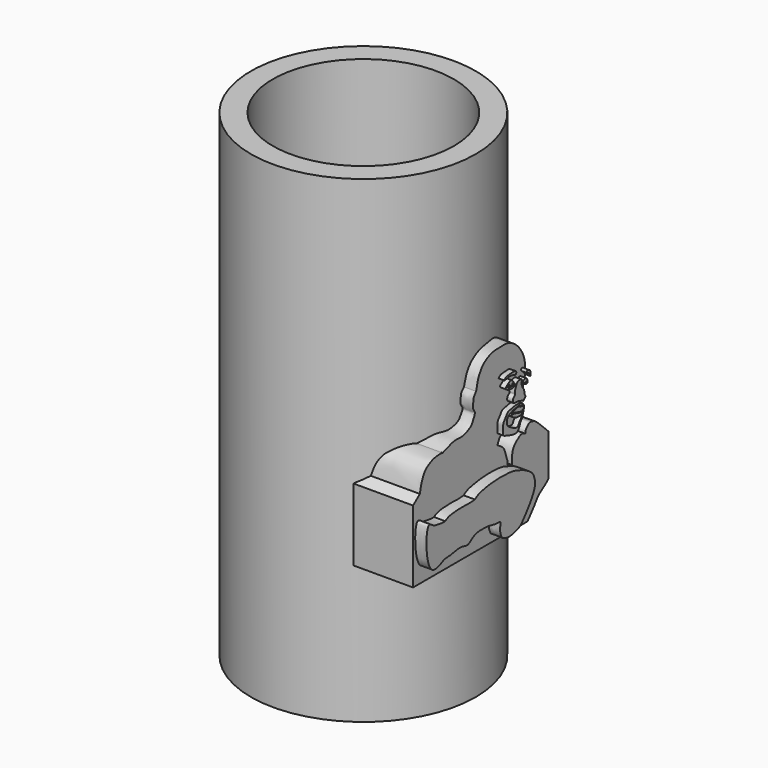
from build123d import *

# Parameters (mm, degrees)
F0_R      = 20
F1_DEPTH  = 85
F2_T      = -3.9
F5_DEPTH  = 22
F6_DEPTH  = 24
F8_DEPTH  = 23
F10_DEPTH = 23
F12_DEPTH = 23
F14_DEPTH = 23
F15_DEPTH = 11


with BuildPart() as f1:
    # F0 (on Top) → F1 (new body)
    with BuildSketch(Plane.XY):
        Circle(F0_R)
    extrude(amount=F1_DEPTH)

    # F2
    f2_openings = [f1.faces().sort_by_distance(p)[0] for p in [
        (0, 0, 85),
    ]]
    offset(amount=F2_T, openings=f2_openings)

    # F3 (on Right) → F5 (join)
    with BuildSketch(Plane.YZ):
        with BuildLine():
            add(Edge.make_bspline(
                [(-16.4515823126, 37.3248904943), (-15.9504863744, 37.7270579338), (-15.4493904362, 38.1292253733), (-14.948294498, 38.5313928127)],
                knots=[0, 0, 0, 0, 1.9275689605, 1.9275689605, 1.9275689605, 1.9275689605], degree=3))
            Line((-16.4515823126, 37.3248904943), (-16.4515823126, 24.4917310774))
            Line((-16.4515823126, 24.4917310774), (8.9940680191, 24.4917310774))
            add(Edge.make_bspline(
                [(13.6829614639, 29.3819773942), (13.4757545766, 29.1478628021), (12.9950564064, 28.6047415889), (11.3275543909, 27.6700101696), (10.8277409634, 26.6802934808), (9.6938398124, 25.3269368553), (8.9940680191, 24.4917310774)],
                knots=[0, 0, 0, 0, 0.1993952658, 0.4625760302, 0.6683360496, 1, 1, 1, 1], degree=3))
            Line((13.6829614639, 29.3819773942), (13.6829614639, 36.6673693061))
            add(Edge.make_bspline(
                [(8.5044139996, 38.4298712015), (8.5054520349, 38.6144104003), (8.5076043419, 38.9970419141), (8.9982072303, 39.4040604211), (9.3791289231, 39.8663838437), (9.9431143063, 39.7471940442), (10.5914397004, 39.6086211348), (11.4615368584, 38.8477871989), (12.8211431251, 37.5132787831), (13.6829614639, 36.6673693061)],
                knots=[0, 0, 0, 0, 0.1107935379, 0.2297240879, 0.3425043159, 0.4509418528, 0.5708087007, 0.7279470229, 1, 1, 1, 1], degree=3))
            add(Edge.make_bspline(
                [(5.5296607316, 34.7369387746), (5.5223939966, 35.0687982271), (5.5074492492, 35.7512994721), (5.6215718376, 36.9034984386), (6.1402463828, 37.7692465801), (6.9556839239, 38.3728413901), (7.698764092, 38.8735105637), (8.2333885391, 38.5791141435), (8.5044139996, 38.4298712015)],
                knots=[0, 0, 0, 0, 0.1712211629, 0.3521329765, 0.520135718, 0.6916107326, 0.843663447, 1, 1, 1, 1], degree=3))
            add(Edge.make_bspline(
                [(2.2931317799, 39.1361154616), (2.5295084399, 38.9965519203), (3.0073904031, 38.71439674), (3.7157367421, 38.1360633994), (4.0296084714, 37.4062468293), (4.3187025128, 36.2563610921), (4.6145068218, 35.7072249875), (4.3859374437, 34.9870517659), (5.1092354887, 34.8288786837), (5.5296607316, 34.7369387746)],
                knots=[0, 0, 0, 0, 0.1434980402, 0.2901095445, 0.4308653128, 0.6009780997, 0.7248543047, 0.8400684246, 1, 1, 1, 1], degree=3))
            add(Edge.make_bspline(
                [(-2.4435624946, 49.5003275573), (-2.3845054359, 49.7604555118), (-2.2555188287, 50.3286013531), (-1.944644982, 51.4888406137), (-1.4681658834, 52.3153655521), (-0.7982169602, 53.2490511267), (0.8658942955, 54.1656345756), (2.0743845922, 54.2293342303), (4.4899293685, 54.3720072171), (5.7153985447, 53.7514163189), (6.9085769149, 52.830063469), (7.7942513165, 51.5391678117), (8.430544438, 50.1374390902), (8.4346501677, 48.6021875589), (8.5377269519, 47.4506307595), (7.9934736411, 46.9650166653), (7.9049124264, 46.5271170093), (8.0061433661, 46.0799136303), (7.8297228441, 45.203439903), (7.4370477524, 44.2449185427), (7.1231711205, 43.4229065096), (6.8249371243, 42.7349626852), (6.6418992162, 41.5645660348), (6.1921520446, 41.4113391376), (6.1292630962, 40.7960366299), (5.5447023036, 40.0538614719), (4.6876971026, 39.938243465), (4.0133165539, 40.1269544875), (2.9761236029, 40.7412973964), (2.5398893811, 39.7160504336), (2.2931317799, 39.1361154616)],
                knots=[0, 0, 0, 0, 0.032437753, 0.0708473432, 0.1050474903, 0.142693478, 0.1898472447, 0.2298725632, 0.2835672681, 0.3248585007, 0.3673413887, 0.411363432, 0.4548346587, 0.498734566, 0.5355861662, 0.5639698867, 0.5863709081, 0.6096711874, 0.6426282787, 0.6790957712, 0.7116563012, 0.7431704727, 0.780177077, 0.8019281074, 0.8281036844, 0.8615335364, 0.893035629, 0.9231504011, 0.9565297225, 1, 1, 1, 1], degree=3))
            add(Edge.make_bspline(
                [(-9.874811396, 42.8932122886), (-9.6469518061, 42.9624837107), (-9.1249632642, 43.1211730538), (-7.9151827464, 43.6159265304), (-6.8415327452, 43.7932498255), (-5.5079211238, 43.6068122667), (-4.392568333, 44.0096887855), (-3.4480382593, 44.5280819306), (-3.1286771045, 45.2346403886), (-2.4911972049, 46.3479913636), (-3.2487673884, 46.9327910629), (-3.0320186263, 48.0843207918), (-3.0564393668, 48.7297921882), (-2.6605865131, 49.2274755543), (-2.4435624946, 49.5003275573)],
                knots=[0, 0, 0, 0, 0.0736028655, 0.1686119617, 0.2567837027, 0.3523725809, 0.4438452065, 0.5278203948, 0.6027686828, 0.6907915099, 0.764246455, 0.8511279115, 0.9183817457, 1, 1, 1, 1], degree=3))
            add(Edge.make_bspline(
                [(-14.948294498, 38.5313928127), (-14.8639645026, 38.9302851621), (-14.7027132866, 39.6930253481), (-14.4200332098, 40.6169855349), (-13.7747209872, 41.8665226413), (-12.7499741058, 42.436230234), (-12.0372136492, 42.7754247961), (-11.0901147178, 42.9342304094), (-10.340090942, 42.9702093467), (-10.0163113331, 42.9166284886), (-9.874811396, 42.8932122886)],
                knots=[0, 0, 0, 0, 0.1406464801, 0.2689365253, 0.4203529283, 0.5586001865, 0.67375823, 0.8002881756, 0.9127208452, 1, 1, 1, 1], degree=3))
        make_face()
    extrude(amount=F5_DEPTH)

    # F4 (on Right) → F6 (join)
    with BuildSketch(Plane.YZ):
        with BuildLine():
            add(Edge.make_bspline(
                [(-11.7928981781, 33.6265973747), (-11.6847251398, 33.7013140939), (-11.417900247, 33.8856139978), (-10.5401489172, 34.2043294443), (-8.7738907975, 34.3057405263), (-7.5037065812, 34.3228799175), (-6.4099659669, 34.2235273825), (-5.6157645756, 34.3037652704), (-5.2065406926, 34.3451090157)],
                knots=[0, 0, 0, 0, 0.1045468605, 0.2578803857, 0.4733720305, 0.6567681518, 0.82314477, 1, 1, 1, 1], degree=3))
            add(Edge.make_bspline(
                [(-11.7928981781, 33.6265973747), (-11.9980987584, 33.6140483488), (-12.4772044565, 33.5847486764), (-13.7121283351, 33.8431749985), (-14.4214482586, 33.8890319319), (-16.2646842775, 35.7427147943), (-16.152072842, 25.5814484758), (-12.4196249273, 27.5595691918), (-12.0034527811, 27.7583854787), (-11.3427502767, 27.8042070277), (-10.9632527456, 27.8305262327)],
                knots=[0, 0, 0, 0, 0.0839177581, 0.1959325652, 0.287811016, 0.3942436837, 0.6643299207, 0.823285747, 0.8984980044, 1, 1, 1, 1], degree=3))
            add(Edge.make_bspline(
                [(0.4318759893, 28.519038111), (0.3162604437, 28.5636268182), (0.066760594, 28.6598498278), (-0.4148283777, 28.5793434883), (-1.6602413595, 28.8321494645), (-2.2797779353, 29.0137976955), (-3.3145699676, 29.0223097305), (-4.3120700455, 29.044721445), (-5.2306793304, 28.8677502535), (-6.0488176043, 28.3194361898), (-6.7695552225, 27.7927994827), (-7.5022228393, 27.9701528666), (-8.0845456457, 28.1430961327), (-8.7935696493, 28.1786609778), (-9.7316377223, 27.9922146954), (-10.7788482719, 27.8170164132), (-10.9227749205, 27.8275607509), (-10.9632527456, 27.8305262327)],
                knots=[0, 0, 0, 0, 0.0464473251, 0.1002339311, 0.1859283186, 0.249924677, 0.3266482518, 0.4044429466, 0.4779481983, 0.5544958885, 0.6254443883, 0.6895788886, 0.7495531973, 0.8128737221, 0.8911272294, 0.9693807018, 1, 1, 1, 1], degree=3))
            add(Edge.make_bspline(
                [(-5.2065406926, 34.3451090157), (-5.016825904, 34.4849676057), (-4.5697153126, 34.8145795317), (-3.1814844368, 35.1940511673), (-1.5207742633, 35.4243206091), (0.6923664739, 35.567405317), (3.1992755177, 35.4287436148), (4.4585744601, 34.9755329659), (5.6894521991, 34.5528586424), (6.8514605453, 33.9022684531), (7.7261918599, 33.2059863459), (8.0782635251, 32.2545275225), (8.2470979, 31.3403203699), (7.9187959124, 30.2029429424), (7.036853424, 28.7000337344), (5.8768000245, 27.1955029164), (4.8766061632, 25.9803089146), (3.8757998906, 25.7395832312), (2.5399129447, 25.3045575217), (1.3397877083, 25.5992948743), (0.8062730469, 25.8802984819), (0.5602772532, 26.4361817415), (0.3723201395, 27.0508419158), (0.4456128254, 27.8670484249), (0.4362873778, 28.3096609437), (0.4318759893, 28.519038111)],
                knots=[0, 0, 0, 0, 0.034582317, 0.0815019237, 0.1332432846, 0.1932361762, 0.2560230801, 0.3017990273, 0.3466326582, 0.392642354, 0.4341446221, 0.473343667, 0.5109989283, 0.5533014061, 0.6058877686, 0.6617318598, 0.7103159503, 0.7498366729, 0.7968202194, 0.8404163652, 0.8702723199, 0.9000904353, 0.9320941169, 0.967877227, 1, 1, 1, 1], degree=3))
        make_face()
    extrude(amount=F6_DEPTH)

    # F7 (on Right) → F8 (join)
    with BuildSketch(Plane.YZ):
        with BuildLine():
            add(Edge.make_bspline(
                [(4.9480199814, 44.5872806013), (4.7086402799, 44.5544516706), (4.2352987788, 44.3909106573), (3.5657471089, 44.368697034), (3.1205160543, 43.9828633386), (2.7575046447, 43.3460386477), (2.2776759342, 42.9143278491), (2.3328527548, 41.969677184), (2.3574339665, 41.3766706481), (2.1929526091, 40.9477415945), (3.1019615298, 40.6225317951), (3.6546534042, 40.4390140589), (4.4770697885, 40.2227004255), (5.0384017782, 40.1275647241), (5.5586292757, 40.2957366373), (5.769527061, 40.5836838059), (6.0230333947, 41.0887029399), (6.1030494041, 41.4884177971), (6.4719011131, 41.8546228922), (6.6147977426, 42.2348135283), (6.6658518891, 42.5094787853), (6.8069302044, 42.7946707082), (6.9159143531, 43.3746673329), (7.0274415712, 43.7077192777), (6.7374654306, 44.2457988115), (6.386431721, 44.4558715337), (5.6415873928, 44.5841890296), (5.1817347499, 44.6193326336), (4.9480199814, 44.5872806013)],
                knots=[0, 0, 0, 0, 0.0447585814, 0.0863790366, 0.124990065, 0.1691096372, 0.2097612181, 0.2589450054, 0.2996418442, 0.3295923159, 0.3765123798, 0.4188130949, 0.465814907, 0.5054675311, 0.5419514568, 0.5727014617, 0.6111901191, 0.6444532472, 0.6811665519, 0.7140495011, 0.7407728288, 0.7700777496, 0.8096003464, 0.8404226919, 0.8787761091, 0.9119018701, 0.9563006328, 1, 1, 1, 1], degree=3))
        make_face()
        with BuildLine():
            add(Edge.make_bspline(
                [(3.5965337884, 43.6207093298), (3.4525720926, 43.5278073563), (3.1741797555, 43.226168647), (3.1324758625, 42.7780185425), (3.1563339183, 42.2769339315), (3.5061978736, 41.8413595944), (4.2035474326, 41.4880391446), (4.7288456441, 41.1437310808), (5.3967257409, 40.9649941626), (5.7563352863, 41.1612837143), (5.881251099, 41.6399105253), (6.3180616401, 41.9909106012), (6.3915850567, 42.3179829977), (6.7267453255, 43.0598499449), (6.7735882391, 43.4404032327), (6.798775608, 44.063640409), (6.1509843544, 44.072627324), (5.861048985, 44.2618410298), (5.2780373293, 44.1577937245), (4.7395127698, 44.1029776624), (4.1774185386, 43.8975191723), (3.9278138672, 43.7559523294), (3.7122397808, 43.6953772128), (3.5965337884, 43.6207093298)],
                knots=[0, 0, 0, 0, 0.0499592381, 0.09482407, 0.1411634324, 0.1901694407, 0.2492785766, 0.3040351006, 0.358185499, 0.3978914202, 0.4442422117, 0.492831947, 0.5323447249, 0.5917708449, 0.6361288608, 0.6830671976, 0.7319452139, 0.7716990013, 0.8215616793, 0.8728419638, 0.9240385616, 0.95984638, 1, 1, 1, 1], degree=3))
        make_face(mode=Mode.SUBTRACT)
    extrude(amount=F8_DEPTH)

    # F9 (on Right) → F10 (join)
    with BuildSketch(Plane.YZ):
        with BuildLine():
            add(Edge.make_bspline(
                [(4.1414666921, 43.3832071722), (4.1096318556, 43.295741476), (4.6252828933, 42.8258641335), (5.084038394, 42.6410334698), (5.8211318992, 42.5067870771), (6.1621152443, 42.5804086462), (6.436460159, 42.532359478), (6.560786853, 42.8401397217), (6.2639960065, 43.0836842617), (5.9674557806, 43.0394371864), (5.5616420462, 43.1572497558), (4.8899126369, 43.4192104764), (4.547587622, 43.4104179029), (4.1650162835, 43.4479092922), (4.1414666921, 43.3832071722)],
                knots=[0, 0, 0, 0, 0.1027406321, 0.202232169, 0.3100605256, 0.3863647227, 0.4480448024, 0.5108333115, 0.5832852198, 0.6514063436, 0.7350537791, 0.842255833, 0.923998356, 1, 1, 1, 1], degree=3))
        make_face()
        with BuildLine():
            add(Edge.make_bspline(
                [(4.2997105047, 43.6056032777), (4.2951540954, 43.6671582119), (4.8023315736, 43.8841206783), (5.1834622922, 44.0390283716), (5.5724585009, 44.0911572119), (5.78327886, 44.1078749495), (6.0273632161, 44.0102913177), (6.1466393127, 43.9432935723), (6.1607888029, 43.8537474426), (6.3512565819, 43.8924671409), (6.5713526111, 43.8923466741), (6.7212873616, 43.7853609603), (6.7404335952, 43.6020175429), (6.7191393107, 43.3328217686), (6.658462817, 43.2161851316), (6.4492055516, 43.0873470401), (6.0869170137, 43.183754612), (5.7295596366, 43.212004009), (5.6804172696, 43.3029523296), (5.4672725315, 43.3058302997), (5.1016442691, 43.4438526494), (4.7034317745, 43.5147485671), (4.3035221848, 43.5541092835), (4.2997105047, 43.6056032777)],
                knots=[0, 0, 0, 0, 0.0682253082, 0.1357269032, 0.193303832, 0.2374221633, 0.2859149567, 0.3202209939, 0.3439157973, 0.3828864156, 0.428770867, 0.466826368, 0.507152377, 0.5563951863, 0.590299905, 0.6340609128, 0.6937586656, 0.7493649817, 0.776274439, 0.8175376129, 0.8768995636, 0.9429258813, 1, 1, 1, 1], degree=3))
        make_face()
    extrude(amount=F10_DEPTH)

    # F11 (on Right) → F12 (join)
    with BuildSketch(Plane.YZ):
        with BuildLine():
            add(Edge.make_bspline(
                [(2.8826526832, 48.1322221458), (2.9101452516, 48.278508563), (3.4415393252, 48.6059506848), (3.8445073287, 48.9291059452), (4.3299006826, 48.8823633438), (4.5438665088, 48.4942649308), (5.1209675122, 47.8285318438), (4.4066114092, 47.4362052232), (3.5237676661, 47.6081181841), (3.082177376, 47.8363846437), (2.8642174321, 48.0341292071), (2.8826526832, 48.1322221458)],
                knots=[0, 0, 0, 0, 0.1243117793, 0.2359129696, 0.3287861824, 0.4291370501, 0.5544467226, 0.6670160276, 0.808969015, 0.9166422421, 1, 1, 1, 1], degree=3))
        make_face()
        with BuildLine():
            add(Edge.make_bspline(
                [(3.5838265903, 48.370141536), (3.4911600824, 48.3249851909), (3.3221956081, 48.2426488832), (3.3129305813, 47.9395576284), (3.8485307311, 47.9326812014), (4.2665756057, 47.8637756982), (4.5568484021, 47.8716388512), (4.632686653, 48.1036840677), (4.5118961546, 48.2513620505), (4.4443933293, 48.3338907361)],
                knots=[0, 0, 0, 0, 0.139702787, 0.2547285802, 0.4345484205, 0.6152995182, 0.7460898094, 0.858104276, 1, 1, 1, 1], degree=3))
            add(Edge.make_bspline(
                [(4.4443933293, 48.3338907361), (4.4129324075, 48.2649011586), (4.3522693057, 48.1318751212), (4.2168612284, 47.9640475087), (4.0401621598, 47.982817116), (3.8916820698, 48.069330192), (3.8016966928, 48.1804427292), (3.7689409884, 48.2897757323), (3.8137654293, 48.4248298364), (3.6698363731, 48.3905979706), (3.5838265903, 48.370141536)],
                knots=[0, 0, 0, 0, 0.1498284672, 0.2888999759, 0.4136546709, 0.5435169743, 0.6607737798, 0.7671586382, 0.8608575956, 1, 1, 1, 1], degree=3))
        make_face(mode=Mode.SUBTRACT)
        with BuildLine():
            add(Edge.make_bspline(
                [(6.6327429377, 47.611169517), (6.6678650289, 47.7288790732), (7.0124156482, 47.8649915768), (7.3143768606, 47.9520476926), (7.6194652758, 47.8007856311), (7.7444317366, 47.4314915991), (7.7753593887, 46.9128918878), (7.3318782614, 46.9798762933), (6.8510782935, 47.1384002485), (6.5967084063, 47.4904019731), (6.6327429377, 47.611169517)],
                knots=[0, 0, 0, 0, 0.1313692155, 0.2451706362, 0.3513868545, 0.4770722847, 0.6040163015, 0.7174315592, 0.8652179312, 1, 1, 1, 1], degree=3))
        make_face()
        with BuildLine():
            add(Edge.make_bspline(
                [(7.3835225776, 47.4021025002), (7.4285977729, 47.3814965667), (7.522632146, 47.3385091538), (7.4071054163, 47.1896226547), (7.2797534427, 47.0901384697), (7.019603152, 47.1370543412), (6.9084591179, 47.2359644162), (6.7961698769, 47.3725078731), (6.7787136439, 47.4755813016), (6.7490878311, 47.5442508402), (6.8206011468, 47.5692839925), (6.8623777479, 47.5839078426)],
                knots=[0, 0, 0, 0, 0.1052731028, 0.2196172451, 0.342042207, 0.490060307, 0.6085037713, 0.7331175971, 0.8309547489, 0.9012472579, 1, 1, 1, 1], degree=3))
            add(Edge.make_bspline(
                [(6.8623777479, 47.5839078426), (6.8615511582, 47.5311696105), (6.8598796295, 47.4245224268), (6.9584233378, 47.2931143324), (7.1344795328, 47.1478300144), (7.3796170135, 47.3169897014), (7.3825015241, 47.3798509855), (7.3835225776, 47.4021025002)],
                knots=[0, 0, 0, 0, 0.1941513302, 0.3926125651, 0.6146187341, 0.8635834917, 1, 1, 1, 1], degree=3))
        make_face(mode=Mode.SUBTRACT)
    extrude(amount=F12_DEPTH)

    # F13 (on Right) → F14 (join)
    with BuildSketch(Plane.YZ):
        with BuildLine():
            add(Edge.make_bspline(
                [(3.6696915049, 49.9672591686), (3.3730294875, 49.9443536164), (2.9491065943, 49.9429632231), (2.2959238789, 49.3003307815), (3.6212103543, 49.6786254262), (4.1828119275, 49.6307367504), (4.7216719117, 49.4957700117), (5.2199353023, 49.2680567382), (5.3043392944, 49.9108793216), (4.7339482592, 50.0911677293), (4.0202434607, 49.9943256135), (3.6696915049, 49.9672591686)],
                knots=[0, 0, 0, 0, 0.1244231478, 0.2180491535, 0.3549415958, 0.4697879058, 0.5744541119, 0.6643605311, 0.7542668221, 0.8529748493, 1, 1, 1, 1], degree=3))
        make_face()
        with BuildLine():
            add(Edge.make_bspline(
                [(7.6775122434, 49.0110740066), (7.8301273392, 49.0880555524), (8.3963401446, 48.763688686), (8.3821145208, 48.4001882112), (8.477403149, 47.5684119536), (8.2017842986, 48.1979976313), (8.0179344611, 48.5097693859), (7.5112781268, 48.5312848204), (7.5605185441, 48.9520604746), (7.6775122434, 49.0110740066)],
                knots=[0, 0, 0, 0, 0.1717346579, 0.3135250998, 0.4667505032, 0.5991372484, 0.7345252099, 0.8683493739, 1, 1, 1, 1], degree=3))
        make_face()
        with BuildLine():
            add(Edge.make_bspline(
                [(5.6329132058, 48.115927726), (5.3624537206, 47.9871413432), (5.1588938927, 47.4275279941), (4.8177543134, 46.6803234707), (5.1006514917, 46.1592295033), (4.432976805, 46.0071391397), (4.4248875722, 44.9096943837), (5.4400910193, 45.0976718694), (5.9486049956, 44.878855286), (6.2944346853, 44.7651975597), (6.3937459946, 44.8715836416), (6.6610041975, 44.7027357734), (6.7994546903, 44.5046076021), (7.0271487377, 44.8545257795), (7.407868843, 45.1141911782), (7.075256673, 45.3448163479), (7.0641858767, 46.2632009442), (6.6555666456, 46.6152625322), (6.3017274715, 47.4891259214), (6.6786273006, 48.2027715338), (5.898231128, 48.2422658188), (5.6329132058, 48.115927726)],
                knots=[0, 0, 0, 0, 0.0677723793, 0.134248703, 0.1819270695, 0.2342854597, 0.2981995437, 0.3650126843, 0.4220433034, 0.4632737099, 0.4872763125, 0.5270400445, 0.5578523711, 0.6015831967, 0.6470953624, 0.6859051522, 0.7539691392, 0.8087481344, 0.8784065736, 0.9335160057, 1, 1, 1, 1], degree=3))
        make_face()
    extrude(amount=F14_DEPTH)

    # F13 (on Right) + F11 (on Right) + F9 (on Right) + F7 (on Right) + F4 (on Right) + F3 (on Right) → F15 (cut)
    with BuildSketch(Plane.YZ):
        with BuildLine():
            add(Edge.make_bspline(
                [(3.6696915049, 49.9672591686), (3.3730294875, 49.9443536164), (2.9491065943, 49.9429632231), (2.2959238789, 49.3003307815), (3.6212103543, 49.6786254262), (4.1828119275, 49.6307367504), (4.7216719117, 49.4957700117), (5.2199353023, 49.2680567382), (5.3043392944, 49.9108793216), (4.7339482592, 50.0911677293), (4.0202434607, 49.9943256135), (3.6696915049, 49.9672591686)],
                knots=[0, 0, 0, 0, 0.1244231478, 0.2180491535, 0.3549415958, 0.4697879058, 0.5744541119, 0.6643605311, 0.7542668221, 0.8529748493, 1, 1, 1, 1], degree=3))
        make_face()
        with BuildLine():
            add(Edge.make_bspline(
                [(7.6775122434, 49.0110740066), (7.8301273392, 49.0880555524), (8.3963401446, 48.763688686), (8.3821145208, 48.4001882112), (8.477403149, 47.5684119536), (8.2017842986, 48.1979976313), (8.0179344611, 48.5097693859), (7.5112781268, 48.5312848204), (7.5605185441, 48.9520604746), (7.6775122434, 49.0110740066)],
                knots=[0, 0, 0, 0, 0.1717346579, 0.3135250998, 0.4667505032, 0.5991372484, 0.7345252099, 0.8683493739, 1, 1, 1, 1], degree=3))
        make_face()
        with BuildLine():
            add(Edge.make_bspline(
                [(5.6329132058, 48.115927726), (5.3624537206, 47.9871413432), (5.1588938927, 47.4275279941), (4.8177543134, 46.6803234707), (5.1006514917, 46.1592295033), (4.432976805, 46.0071391397), (4.4248875722, 44.9096943837), (5.4400910193, 45.0976718694), (5.9486049956, 44.878855286), (6.2944346853, 44.7651975597), (6.3937459946, 44.8715836416), (6.6610041975, 44.7027357734), (6.7994546903, 44.5046076021), (7.0271487377, 44.8545257795), (7.407868843, 45.1141911782), (7.075256673, 45.3448163479), (7.0641858767, 46.2632009442), (6.6555666456, 46.6152625322), (6.3017274715, 47.4891259214), (6.6786273006, 48.2027715338), (5.898231128, 48.2422658188), (5.6329132058, 48.115927726)],
                knots=[0, 0, 0, 0, 0.0677723793, 0.134248703, 0.1819270695, 0.2342854597, 0.2981995437, 0.3650126843, 0.4220433034, 0.4632737099, 0.4872763125, 0.5270400445, 0.5578523711, 0.6015831967, 0.6470953624, 0.6859051522, 0.7539691392, 0.8087481344, 0.8784065736, 0.9335160057, 1, 1, 1, 1], degree=3))
        make_face()
    with BuildSketch(Plane.YZ):
        with BuildLine():
            add(Edge.make_bspline(
                [(2.8826526832, 48.1322221458), (2.9101452516, 48.278508563), (3.4415393252, 48.6059506848), (3.8445073287, 48.9291059452), (4.3299006826, 48.8823633438), (4.5438665088, 48.4942649308), (5.1209675122, 47.8285318438), (4.4066114092, 47.4362052232), (3.5237676661, 47.6081181841), (3.082177376, 47.8363846437), (2.8642174321, 48.0341292071), (2.8826526832, 48.1322221458)],
                knots=[0, 0, 0, 0, 0.1243117793, 0.2359129696, 0.3287861824, 0.4291370501, 0.5544467226, 0.6670160276, 0.808969015, 0.9166422421, 1, 1, 1, 1], degree=3))
        make_face()
        with BuildLine():
            add(Edge.make_bspline(
                [(3.5838265903, 48.370141536), (3.4911600824, 48.3249851909), (3.3221956081, 48.2426488832), (3.3129305813, 47.9395576284), (3.8485307311, 47.9326812014), (4.2665756057, 47.8637756982), (4.5568484021, 47.8716388512), (4.632686653, 48.1036840677), (4.5118961546, 48.2513620505), (4.4443933293, 48.3338907361)],
                knots=[0, 0, 0, 0, 0.139702787, 0.2547285802, 0.4345484205, 0.6152995182, 0.7460898094, 0.858104276, 1, 1, 1, 1], degree=3))
            add(Edge.make_bspline(
                [(4.4443933293, 48.3338907361), (4.4129324075, 48.2649011586), (4.3522693057, 48.1318751212), (4.2168612284, 47.9640475087), (4.0401621598, 47.982817116), (3.8916820698, 48.069330192), (3.8016966928, 48.1804427292), (3.7689409884, 48.2897757323), (3.8137654293, 48.4248298364), (3.6698363731, 48.3905979706), (3.5838265903, 48.370141536)],
                knots=[0, 0, 0, 0, 0.1498284672, 0.2888999759, 0.4136546709, 0.5435169743, 0.6607737798, 0.7671586382, 0.8608575956, 1, 1, 1, 1], degree=3))
        make_face(mode=Mode.SUBTRACT)
        with BuildLine():
            add(Edge.make_bspline(
                [(6.6327429377, 47.611169517), (6.6678650289, 47.7288790732), (7.0124156482, 47.8649915768), (7.3143768606, 47.9520476926), (7.6194652758, 47.8007856311), (7.7444317366, 47.4314915991), (7.7753593887, 46.9128918878), (7.3318782614, 46.9798762933), (6.8510782935, 47.1384002485), (6.5967084063, 47.4904019731), (6.6327429377, 47.611169517)],
                knots=[0, 0, 0, 0, 0.1313692155, 0.2451706362, 0.3513868545, 0.4770722847, 0.6040163015, 0.7174315592, 0.8652179312, 1, 1, 1, 1], degree=3))
        make_face()
        with BuildLine():
            add(Edge.make_bspline(
                [(7.3835225776, 47.4021025002), (7.4285977729, 47.3814965667), (7.522632146, 47.3385091538), (7.4071054163, 47.1896226547), (7.2797534427, 47.0901384697), (7.019603152, 47.1370543412), (6.9084591179, 47.2359644162), (6.7961698769, 47.3725078731), (6.7787136439, 47.4755813016), (6.7490878311, 47.5442508402), (6.8206011468, 47.5692839925), (6.8623777479, 47.5839078426)],
                knots=[0, 0, 0, 0, 0.1052731028, 0.2196172451, 0.342042207, 0.490060307, 0.6085037713, 0.7331175971, 0.8309547489, 0.9012472579, 1, 1, 1, 1], degree=3))
            add(Edge.make_bspline(
                [(6.8623777479, 47.5839078426), (6.8615511582, 47.5311696105), (6.8598796295, 47.4245224268), (6.9584233378, 47.2931143324), (7.1344795328, 47.1478300144), (7.3796170135, 47.3169897014), (7.3825015241, 47.3798509855), (7.3835225776, 47.4021025002)],
                knots=[0, 0, 0, 0, 0.1941513302, 0.3926125651, 0.6146187341, 0.8635834917, 1, 1, 1, 1], degree=3))
        make_face(mode=Mode.SUBTRACT)
    with BuildSketch(Plane.YZ):
        with BuildLine():
            add(Edge.make_bspline(
                [(4.1414666921, 43.3832071722), (4.1096318556, 43.295741476), (4.6252828933, 42.8258641335), (5.084038394, 42.6410334698), (5.8211318992, 42.5067870771), (6.1621152443, 42.5804086462), (6.436460159, 42.532359478), (6.560786853, 42.8401397217), (6.2639960065, 43.0836842617), (5.9674557806, 43.0394371864), (5.5616420462, 43.1572497558), (4.8899126369, 43.4192104764), (4.547587622, 43.4104179029), (4.1650162835, 43.4479092922), (4.1414666921, 43.3832071722)],
                knots=[0, 0, 0, 0, 0.1027406321, 0.202232169, 0.3100605256, 0.3863647227, 0.4480448024, 0.5108333115, 0.5832852198, 0.6514063436, 0.7350537791, 0.842255833, 0.923998356, 1, 1, 1, 1], degree=3))
        make_face()
        with BuildLine():
            add(Edge.make_bspline(
                [(4.2997105047, 43.6056032777), (4.2951540954, 43.6671582119), (4.8023315736, 43.8841206783), (5.1834622922, 44.0390283716), (5.5724585009, 44.0911572119), (5.78327886, 44.1078749495), (6.0273632161, 44.0102913177), (6.1466393127, 43.9432935723), (6.1607888029, 43.8537474426), (6.3512565819, 43.8924671409), (6.5713526111, 43.8923466741), (6.7212873616, 43.7853609603), (6.7404335952, 43.6020175429), (6.7191393107, 43.3328217686), (6.658462817, 43.2161851316), (6.4492055516, 43.0873470401), (6.0869170137, 43.183754612), (5.7295596366, 43.212004009), (5.6804172696, 43.3029523296), (5.4672725315, 43.3058302997), (5.1016442691, 43.4438526494), (4.7034317745, 43.5147485671), (4.3035221848, 43.5541092835), (4.2997105047, 43.6056032777)],
                knots=[0, 0, 0, 0, 0.0682253082, 0.1357269032, 0.193303832, 0.2374221633, 0.2859149567, 0.3202209939, 0.3439157973, 0.3828864156, 0.428770867, 0.466826368, 0.507152377, 0.5563951863, 0.590299905, 0.6340609128, 0.6937586656, 0.7493649817, 0.776274439, 0.8175376129, 0.8768995636, 0.9429258813, 1, 1, 1, 1], degree=3))
        make_face()
    with BuildSketch(Plane.YZ):
        with BuildLine():
            add(Edge.make_bspline(
                [(4.9480199814, 44.5872806013), (4.7086402799, 44.5544516706), (4.2352987788, 44.3909106573), (3.5657471089, 44.368697034), (3.1205160543, 43.9828633386), (2.7575046447, 43.3460386477), (2.2776759342, 42.9143278491), (2.3328527548, 41.969677184), (2.3574339665, 41.3766706481), (2.1929526091, 40.9477415945), (3.1019615298, 40.6225317951), (3.6546534042, 40.4390140589), (4.4770697885, 40.2227004255), (5.0384017782, 40.1275647241), (5.5586292757, 40.2957366373), (5.769527061, 40.5836838059), (6.0230333947, 41.0887029399), (6.1030494041, 41.4884177971), (6.4719011131, 41.8546228922), (6.6147977426, 42.2348135283), (6.6658518891, 42.5094787853), (6.8069302044, 42.7946707082), (6.9159143531, 43.3746673329), (7.0274415712, 43.7077192777), (6.7374654306, 44.2457988115), (6.386431721, 44.4558715337), (5.6415873928, 44.5841890296), (5.1817347499, 44.6193326336), (4.9480199814, 44.5872806013)],
                knots=[0, 0, 0, 0, 0.0447585814, 0.0863790366, 0.124990065, 0.1691096372, 0.2097612181, 0.2589450054, 0.2996418442, 0.3295923159, 0.3765123798, 0.4188130949, 0.465814907, 0.5054675311, 0.5419514568, 0.5727014617, 0.6111901191, 0.6444532472, 0.6811665519, 0.7140495011, 0.7407728288, 0.7700777496, 0.8096003464, 0.8404226919, 0.8787761091, 0.9119018701, 0.9563006328, 1, 1, 1, 1], degree=3))
        make_face()
        with BuildLine():
            add(Edge.make_bspline(
                [(3.5965337884, 43.6207093298), (3.4525720926, 43.5278073563), (3.1741797555, 43.226168647), (3.1324758625, 42.7780185425), (3.1563339183, 42.2769339315), (3.5061978736, 41.8413595944), (4.2035474326, 41.4880391446), (4.7288456441, 41.1437310808), (5.3967257409, 40.9649941626), (5.7563352863, 41.1612837143), (5.881251099, 41.6399105253), (6.3180616401, 41.9909106012), (6.3915850567, 42.3179829977), (6.7267453255, 43.0598499449), (6.7735882391, 43.4404032327), (6.798775608, 44.063640409), (6.1509843544, 44.072627324), (5.861048985, 44.2618410298), (5.2780373293, 44.1577937245), (4.7395127698, 44.1029776624), (4.1774185386, 43.8975191723), (3.9278138672, 43.7559523294), (3.7122397808, 43.6953772128), (3.5965337884, 43.6207093298)],
                knots=[0, 0, 0, 0, 0.0499592381, 0.09482407, 0.1411634324, 0.1901694407, 0.2492785766, 0.3040351006, 0.358185499, 0.3978914202, 0.4442422117, 0.492831947, 0.5323447249, 0.5917708449, 0.6361288608, 0.6830671976, 0.7319452139, 0.7716990013, 0.8215616793, 0.8728419638, 0.9240385616, 0.95984638, 1, 1, 1, 1], degree=3))
        make_face(mode=Mode.SUBTRACT)
    with BuildSketch(Plane.YZ):
        with BuildLine():
            add(Edge.make_bspline(
                [(-11.7928981781, 33.6265973747), (-11.6847251398, 33.7013140939), (-11.417900247, 33.8856139978), (-10.5401489172, 34.2043294443), (-8.7738907975, 34.3057405263), (-7.5037065812, 34.3228799175), (-6.4099659669, 34.2235273825), (-5.6157645756, 34.3037652704), (-5.2065406926, 34.3451090157)],
                knots=[0, 0, 0, 0, 0.1045468605, 0.2578803857, 0.4733720305, 0.6567681518, 0.82314477, 1, 1, 1, 1], degree=3))
            add(Edge.make_bspline(
                [(-11.7928981781, 33.6265973747), (-11.9980987584, 33.6140483488), (-12.4772044565, 33.5847486764), (-13.7121283351, 33.8431749985), (-14.4214482586, 33.8890319319), (-16.2646842775, 35.7427147943), (-16.152072842, 25.5814484758), (-12.4196249273, 27.5595691918), (-12.0034527811, 27.7583854787), (-11.3427502767, 27.8042070277), (-10.9632527456, 27.8305262327)],
                knots=[0, 0, 0, 0, 0.0839177581, 0.1959325652, 0.287811016, 0.3942436837, 0.6643299207, 0.823285747, 0.8984980044, 1, 1, 1, 1], degree=3))
            add(Edge.make_bspline(
                [(0.4318759893, 28.519038111), (0.3162604437, 28.5636268182), (0.066760594, 28.6598498278), (-0.4148283777, 28.5793434883), (-1.6602413595, 28.8321494645), (-2.2797779353, 29.0137976955), (-3.3145699676, 29.0223097305), (-4.3120700455, 29.044721445), (-5.2306793304, 28.8677502535), (-6.0488176043, 28.3194361898), (-6.7695552225, 27.7927994827), (-7.5022228393, 27.9701528666), (-8.0845456457, 28.1430961327), (-8.7935696493, 28.1786609778), (-9.7316377223, 27.9922146954), (-10.7788482719, 27.8170164132), (-10.9227749205, 27.8275607509), (-10.9632527456, 27.8305262327)],
                knots=[0, 0, 0, 0, 0.0464473251, 0.1002339311, 0.1859283186, 0.249924677, 0.3266482518, 0.4044429466, 0.4779481983, 0.5544958885, 0.6254443883, 0.6895788886, 0.7495531973, 0.8128737221, 0.8911272294, 0.9693807018, 1, 1, 1, 1], degree=3))
            add(Edge.make_bspline(
                [(-5.2065406926, 34.3451090157), (-5.016825904, 34.4849676057), (-4.5697153126, 34.8145795317), (-3.1814844368, 35.1940511673), (-1.5207742633, 35.4243206091), (0.6923664739, 35.567405317), (3.1992755177, 35.4287436148), (4.4585744601, 34.9755329659), (5.6894521991, 34.5528586424), (6.8514605453, 33.9022684531), (7.7261918599, 33.2059863459), (8.0782635251, 32.2545275225), (8.2470979, 31.3403203699), (7.9187959124, 30.2029429424), (7.036853424, 28.7000337344), (5.8768000245, 27.1955029164), (4.8766061632, 25.9803089146), (3.8757998906, 25.7395832312), (2.5399129447, 25.3045575217), (1.3397877083, 25.5992948743), (0.8062730469, 25.8802984819), (0.5602772532, 26.4361817415), (0.3723201395, 27.0508419158), (0.4456128254, 27.8670484249), (0.4362873778, 28.3096609437), (0.4318759893, 28.519038111)],
                knots=[0, 0, 0, 0, 0.034582317, 0.0815019237, 0.1332432846, 0.1932361762, 0.2560230801, 0.3017990273, 0.3466326582, 0.392642354, 0.4341446221, 0.473343667, 0.5109989283, 0.5533014061, 0.6058877686, 0.6617318598, 0.7103159503, 0.7498366729, 0.7968202194, 0.8404163652, 0.8702723199, 0.9000904353, 0.9320941169, 0.967877227, 1, 1, 1, 1], degree=3))
        make_face()
    with BuildSketch(Plane.YZ):
        with BuildLine():
            add(Edge.make_bspline(
                [(-16.4515823126, 37.3248904943), (-15.9504863744, 37.7270579338), (-15.4493904362, 38.1292253733), (-14.948294498, 38.5313928127)],
                knots=[0, 0, 0, 0, 1.9275689605, 1.9275689605, 1.9275689605, 1.9275689605], degree=3))
            Line((-16.4515823126, 37.3248904943), (-16.4515823126, 24.4917310774))
            Line((-16.4515823126, 24.4917310774), (8.9940680191, 24.4917310774))
            add(Edge.make_bspline(
                [(13.6829614639, 29.3819773942), (13.4757545766, 29.1478628021), (12.9950564064, 28.6047415889), (11.3275543909, 27.6700101696), (10.8277409634, 26.6802934808), (9.6938398124, 25.3269368553), (8.9940680191, 24.4917310774)],
                knots=[0, 0, 0, 0, 0.1993952658, 0.4625760302, 0.6683360496, 1, 1, 1, 1], degree=3))
            Line((13.6829614639, 29.3819773942), (13.6829614639, 36.6673693061))
            add(Edge.make_bspline(
                [(8.5044139996, 38.4298712015), (8.5054520349, 38.6144104003), (8.5076043419, 38.9970419141), (8.9982072303, 39.4040604211), (9.3791289231, 39.8663838437), (9.9431143063, 39.7471940442), (10.5914397004, 39.6086211348), (11.4615368584, 38.8477871989), (12.8211431251, 37.5132787831), (13.6829614639, 36.6673693061)],
                knots=[0, 0, 0, 0, 0.1107935379, 0.2297240879, 0.3425043159, 0.4509418528, 0.5708087007, 0.7279470229, 1, 1, 1, 1], degree=3))
            add(Edge.make_bspline(
                [(5.5296607316, 34.7369387746), (5.5223939966, 35.0687982271), (5.5074492492, 35.7512994721), (5.6215718376, 36.9034984386), (6.1402463828, 37.7692465801), (6.9556839239, 38.3728413901), (7.698764092, 38.8735105637), (8.2333885391, 38.5791141435), (8.5044139996, 38.4298712015)],
                knots=[0, 0, 0, 0, 0.1712211629, 0.3521329765, 0.520135718, 0.6916107326, 0.843663447, 1, 1, 1, 1], degree=3))
            add(Edge.make_bspline(
                [(2.2931317799, 39.1361154616), (2.5295084399, 38.9965519203), (3.0073904031, 38.71439674), (3.7157367421, 38.1360633994), (4.0296084714, 37.4062468293), (4.3187025128, 36.2563610921), (4.6145068218, 35.7072249875), (4.3859374437, 34.9870517659), (5.1092354887, 34.8288786837), (5.5296607316, 34.7369387746)],
                knots=[0, 0, 0, 0, 0.1434980402, 0.2901095445, 0.4308653128, 0.6009780997, 0.7248543047, 0.8400684246, 1, 1, 1, 1], degree=3))
            add(Edge.make_bspline(
                [(-2.4435624946, 49.5003275573), (-2.3845054359, 49.7604555118), (-2.2555188287, 50.3286013531), (-1.944644982, 51.4888406137), (-1.4681658834, 52.3153655521), (-0.7982169602, 53.2490511267), (0.8658942955, 54.1656345756), (2.0743845922, 54.2293342303), (4.4899293685, 54.3720072171), (5.7153985447, 53.7514163189), (6.9085769149, 52.830063469), (7.7942513165, 51.5391678117), (8.430544438, 50.1374390902), (8.4346501677, 48.6021875589), (8.5377269519, 47.4506307595), (7.9934736411, 46.9650166653), (7.9049124264, 46.5271170093), (8.0061433661, 46.0799136303), (7.8297228441, 45.203439903), (7.4370477524, 44.2449185427), (7.1231711205, 43.4229065096), (6.8249371243, 42.7349626852), (6.6418992162, 41.5645660348), (6.1921520446, 41.4113391376), (6.1292630962, 40.7960366299), (5.5447023036, 40.0538614719), (4.6876971026, 39.938243465), (4.0133165539, 40.1269544875), (2.9761236029, 40.7412973964), (2.5398893811, 39.7160504336), (2.2931317799, 39.1361154616)],
                knots=[0, 0, 0, 0, 0.032437753, 0.0708473432, 0.1050474903, 0.142693478, 0.1898472447, 0.2298725632, 0.2835672681, 0.3248585007, 0.3673413887, 0.411363432, 0.4548346587, 0.498734566, 0.5355861662, 0.5639698867, 0.5863709081, 0.6096711874, 0.6426282787, 0.6790957712, 0.7116563012, 0.7431704727, 0.780177077, 0.8019281074, 0.8281036844, 0.8615335364, 0.893035629, 0.9231504011, 0.9565297225, 1, 1, 1, 1], degree=3))
            add(Edge.make_bspline(
                [(-9.874811396, 42.8932122886), (-9.6469518061, 42.9624837107), (-9.1249632642, 43.1211730538), (-7.9151827464, 43.6159265304), (-6.8415327452, 43.7932498255), (-5.5079211238, 43.6068122667), (-4.392568333, 44.0096887855), (-3.4480382593, 44.5280819306), (-3.1286771045, 45.2346403886), (-2.4911972049, 46.3479913636), (-3.2487673884, 46.9327910629), (-3.0320186263, 48.0843207918), (-3.0564393668, 48.7297921882), (-2.6605865131, 49.2274755543), (-2.4435624946, 49.5003275573)],
                knots=[0, 0, 0, 0, 0.0736028655, 0.1686119617, 0.2567837027, 0.3523725809, 0.4438452065, 0.5278203948, 0.6027686828, 0.6907915099, 0.764246455, 0.8511279115, 0.9183817457, 1, 1, 1, 1], degree=3))
            add(Edge.make_bspline(
                [(-14.948294498, 38.5313928127), (-14.8639645026, 38.9302851621), (-14.7027132866, 39.6930253481), (-14.4200332098, 40.6169855349), (-13.7747209872, 41.8665226413), (-12.7499741058, 42.436230234), (-12.0372136492, 42.7754247961), (-11.0901147178, 42.9342304094), (-10.340090942, 42.9702093467), (-10.0163113331, 42.9166284886), (-9.874811396, 42.8932122886)],
                knots=[0, 0, 0, 0, 0.1406464801, 0.2689365253, 0.4203529283, 0.5586001865, 0.67375823, 0.8002881756, 0.9127208452, 1, 1, 1, 1], degree=3))
        make_face()
    extrude(amount=F15_DEPTH, mode=Mode.SUBTRACT)


solid = f1.part
